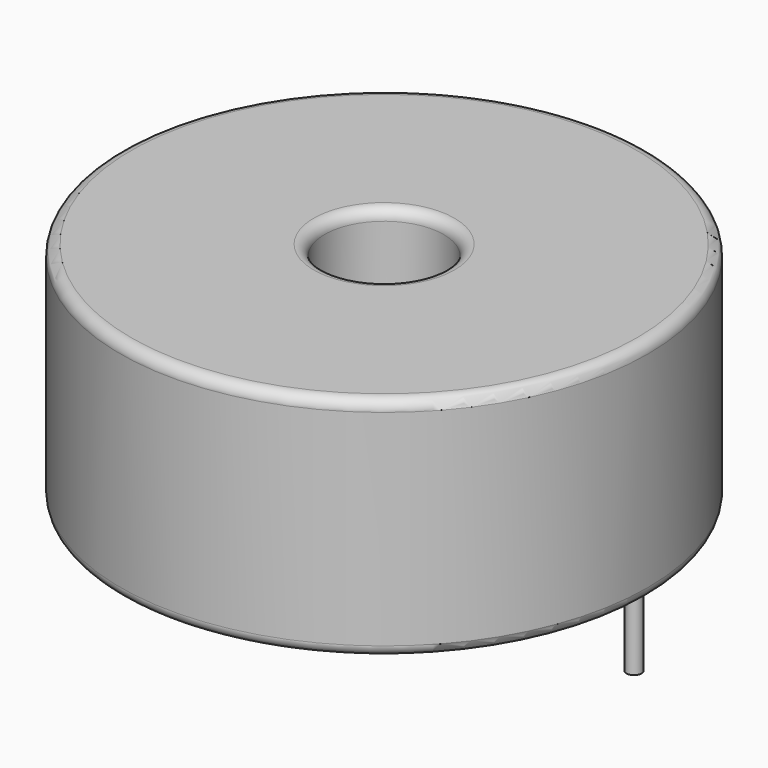
from build123d import *

# Parameters (mm, degrees)
SKETCH001_R       = 0.35
PAD001_DEPTH      = 5.25
PAD001_DEPTH_BACK = 3.5
SKETCH_R          = 12.2
SKETCH_R_2        = 2.75
PAD_DEPTH         = 10.5
FILLET_R          = 0.5


with BuildPart() as pad001:
    # Sketch001 → Pad001 (new body, two sides)
    with BuildSketch(Plane.XY.offset(0.5)) as pad001_sk:
        Circle(SKETCH001_R)
        with Locations((23.1, 0)):
            Circle(SKETCH001_R)
    extrude(amount=PAD001_DEPTH)
    extrude(pad001_sk.sketch, amount=-PAD001_DEPTH_BACK)


with BuildPart() as fillet_body:
    # Sketch → Pad (new body)
    with BuildSketch(Plane.XY.offset(0.1)):
        with Locations((11.55, 0)):
            Circle(SKETCH_R)
        with Locations((11.55, 0)):
            Circle(SKETCH_R_2, mode=Mode.SUBTRACT)
    extrude(amount=PAD_DEPTH)

    # Fillet
    fillet_edges = [fillet_body.edges().sort_by_distance(p)[0] for p in [
        (8.8, 0, 10.6),
        (-0.65, 0, 10.6),
        (-0.65, 0, 0.1),
    ]]
    fillet(fillet_edges, radius=FILLET_R)


solid = Compound([pad001.part, fillet_body.part])
